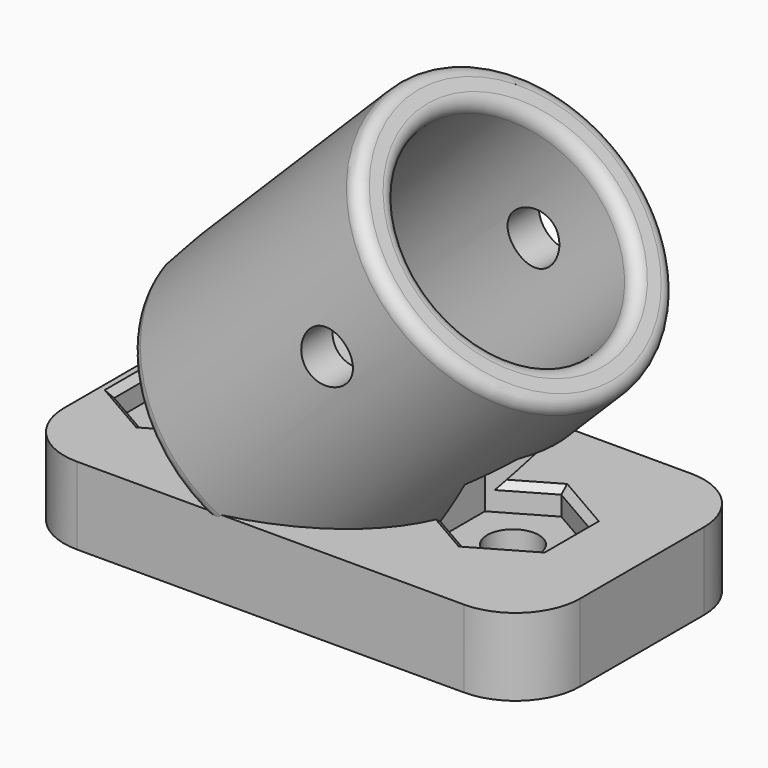
from build123d import *

# Parameters (mm, degrees)
SKETCH050_W     = 40
SKETCH050_H     = 6
PAD009_DEPTH    = 11
FILLET017_R     = 5
SKETCH051_R     = 2
POCKET027_DEPTH = 30
POCKET028_DEPTH = 8
SKETCH053_R     = 2
POCKET029_DEPTH = 25
FILLET018_R     = 1
CHAMFER010_SIZE = 0.5
CHAMFER011_SIZE = 0.5
FILLET019_R     = 1


with BuildPart() as part:
    # Sketch049 → Revolution005 (revolve)
    with BuildSketch(Plane.XZ):
        Polygon((-215, 16.404877), (-198.029437, 33.37544), (-195.908117, 31.25412), (-210.050253, 17.111984), (-203.969134, 11.030866), (-215, 0), align=None)
    revolve(axis=Axis((0, 0, 215), (-0.707107, 0, -0.707107)))

    # Sketch050 → Pad009 (new body, symmetric)
    with BuildSketch(Plane.XZ):
        with Locations((-200, 3)):
            Rectangle(SKETCH050_W, SKETCH050_H)
    extrude(amount=PAD009_DEPTH, both=True)

    # Fillet017
    fillet017_edges = [part.edges().sort_by_distance(p)[0] for p in [
        (-220, -11, 3),
        (-180, -11, 3),
        (-180, 11, 3),
        (-220, 11, 3),
    ]]
    fillet(fillet017_edges, radius=FILLET017_R)

    # Sketch051 → Pocket027 (cut)
    with BuildSketch(Plane.XY):
        with Locations((-215, 0)):
            Circle(SKETCH051_R)
        with Locations((-190, 0)):
            Circle(SKETCH051_R)
    extrude(amount=POCKET027_DEPTH, mode=Mode.SUBTRACT)

    # Sketch052 → Pocket028 (cut)
    with BuildSketch(Plane.XY.offset(4)):
        Polygon((-215, -4.676537), (-210.95, -2.338269), (-210.95, 2.338269), (-215, 4.676537), (-219.05, 2.338269), (-219.05, -2.338269), align=None)
        Polygon((-190, -4.676537), (-185.95, -2.338269), (-185.95, 2.338269), (-190, 4.676537), (-194.05, 2.338269), (-194.05, -2.338269), align=None)
    extrude(amount=POCKET028_DEPTH, mode=Mode.SUBTRACT)

    # Sketch053 → Pocket029 (cut, symmetric)
    with BuildSketch(Plane.XZ):
        with Locations((-195.20101, 19.79899)):
            Circle(SKETCH053_R)
    extrude(amount=POCKET029_DEPTH, both=True, mode=Mode.SUBTRACT)

    # Fillet018
    fillet018_edges = [part.edges().sort_by_distance(p)[0] for p in [
        (-183.74588, 0, 19.091883),
        (-181.62456, 0, 16.970563),
    ]]
    fillet(fillet018_edges, radius=FILLET018_R)

    # Chamfer010
    chamfer010_edges = [part.edges().sort_by_distance(p)[0] for p in [
        (-187.975, -3.507403, 6),
        (-191.554638, -3.778967, 6),
        (-191.554638, 3.778967, 6),
        (-187.975, 3.507403, 6),
        (-185.95, 0, 6),
    ]]
    chamfer(chamfer010_edges, length=CHAMFER010_SIZE)

    # Chamfer011
    chamfer011_edges = [part.edges().sort_by_distance(p)[0] for p in [
        (-217.025, 3.507403, 6),
        (-219.05, 0, 6),
        (-217.025, -3.507403, 6),
        (-214.355644, -4.304518, 6),
        (-214.355644, 4.304518, 6),
    ]]
    chamfer(chamfer011_edges, length=CHAMFER011_SIZE)

    # Fillet019
    fillet019_edges = [part.edges().sort_by_distance(p)[0] for p in [
        (-210.996453, -9.964869, 12.40133),
        (-210.996453, 9.964869, 12.40133),
        (-213.659441, 1.484217, 17.610599),
        (-213.659441, -1.484217, 17.610599),
    ]]
    fillet(fillet019_edges, radius=FILLET019_R)


solid = part.part
